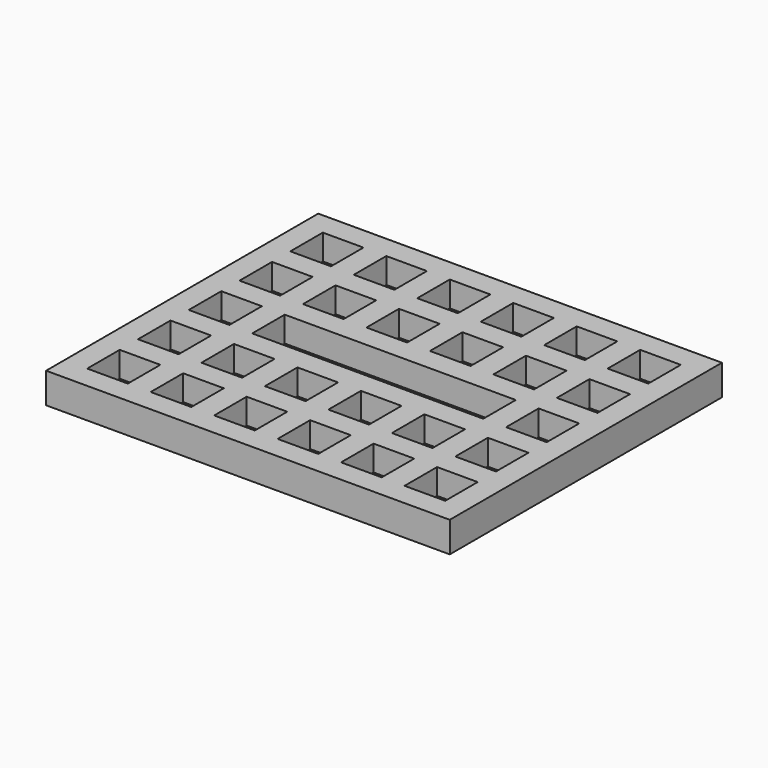
from build123d import *

# Parameters (mm, degrees)
F0_W     = 159
F0_H     = 134
F0_W_2   = 16
F0_H_2   = 16
F0_W_3   = 91
F1_DEPTH = 10
F2_W     = 159
F2_H     = 134
F3_DEPTH = 2


with BuildPart() as f1:
    # F0 (on Top) → F1 (new body)
    with BuildSketch(Plane.XY):
        Rectangle(F0_W, F0_H)
        with Locations((-62.5, -50)):
            Rectangle(F0_W_2, F0_H_2, mode=Mode.SUBTRACT)
        with Locations((-37.5, -50)):
            Rectangle(F0_W_2, F0_H_2, mode=Mode.SUBTRACT)
        with Locations((-12.5, -50)):
            Rectangle(F0_W_2, F0_H_2, mode=Mode.SUBTRACT)
        with Locations((-62.5, -25)):
            Rectangle(F0_W_2, F0_H_2, mode=Mode.SUBTRACT)
        with Locations((-37.5, -25)):
            Rectangle(F0_W_2, F0_H_2, mode=Mode.SUBTRACT)
        with Locations((-12.5, -25)):
            Rectangle(F0_W_2, F0_H_2, mode=Mode.SUBTRACT)
        with Locations((12.5, -50)):
            Rectangle(F0_W_2, F0_H_2, mode=Mode.SUBTRACT)
        with Locations((37.5, -50)):
            Rectangle(F0_W_2, F0_H_2, mode=Mode.SUBTRACT)
        with Locations((62.5, -50)):
            Rectangle(F0_W_2, F0_H_2, mode=Mode.SUBTRACT)
        with Locations((12.5, -25)):
            Rectangle(F0_W_2, F0_H_2, mode=Mode.SUBTRACT)
        with Locations((37.5, -25)):
            Rectangle(F0_W_2, F0_H_2, mode=Mode.SUBTRACT)
        with Locations((62.5, -25)):
            Rectangle(F0_W_2, F0_H_2, mode=Mode.SUBTRACT)
        with Locations((-62.5, 0)):
            Rectangle(F0_W_2, F0_H_2, mode=Mode.SUBTRACT)
        with Locations((-62.5, 25)):
            Rectangle(F0_W_2, F0_H_2, mode=Mode.SUBTRACT)
        with Locations((-37.5, 25)):
            Rectangle(F0_W_2, F0_H_2, mode=Mode.SUBTRACT)
        with Locations((-12.5, 25)):
            Rectangle(F0_W_2, F0_H_2, mode=Mode.SUBTRACT)
        with Locations((-62.5, 50)):
            Rectangle(F0_W_2, F0_H_2, mode=Mode.SUBTRACT)
        with Locations((-37.5, 50)):
            Rectangle(F0_W_2, F0_H_2, mode=Mode.SUBTRACT)
        with Locations((-12.5, 50)):
            Rectangle(F0_W_2, F0_H_2, mode=Mode.SUBTRACT)
        Rectangle(F0_W_3, F0_H_2, mode=Mode.SUBTRACT)
        with Locations((12.5, 25)):
            Rectangle(F0_W_2, F0_H_2, mode=Mode.SUBTRACT)
        with Locations((37.5, 25)):
            Rectangle(F0_W_2, F0_H_2, mode=Mode.SUBTRACT)
        with Locations((62.5, 0)):
            Rectangle(F0_W_2, F0_H_2, mode=Mode.SUBTRACT)
        with Locations((62.5, 25)):
            Rectangle(F0_W_2, F0_H_2, mode=Mode.SUBTRACT)
        with Locations((12.5, 50)):
            Rectangle(F0_W_2, F0_H_2, mode=Mode.SUBTRACT)
        with Locations((37.5, 50)):
            Rectangle(F0_W_2, F0_H_2, mode=Mode.SUBTRACT)
        with Locations((62.5, 50)):
            Rectangle(F0_W_2, F0_H_2, mode=Mode.SUBTRACT)
    extrude(amount=F1_DEPTH)

    # F2 (on face) → F3 (join)
    with BuildSketch(Plane(origin=(0, 0, 0), x_dir=(1, 0, 0), z_dir=(0, 0, -1))):
        Rectangle(F2_W, F2_H)
    extrude(amount=F3_DEPTH)


solid = f1.part
